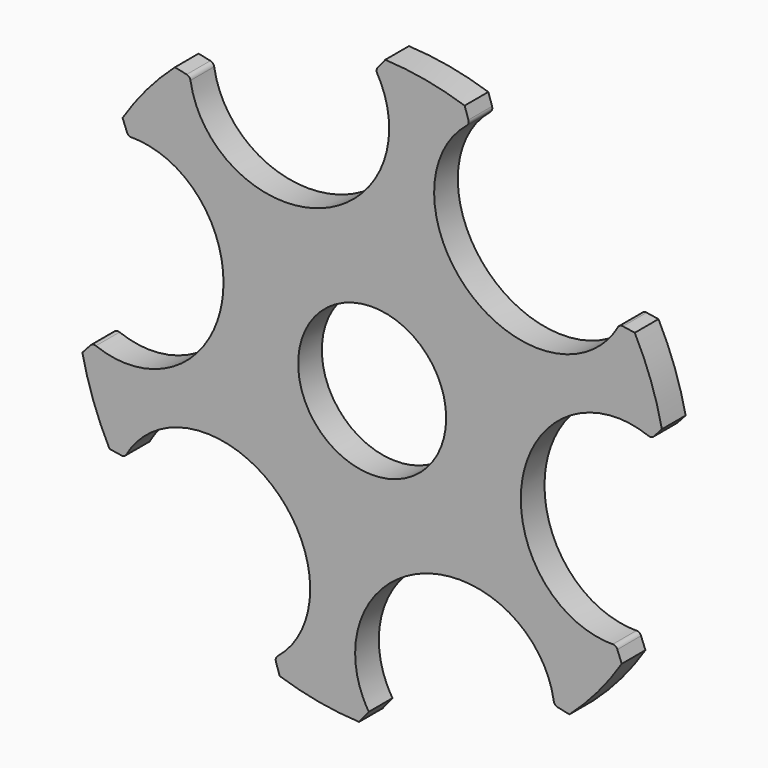
from build123d import *

# Parameters (mm, degrees)
F0_R     = 15
F1_DEPTH = 6
F2_R     = 1


with BuildPart() as f1:
    # F0 (on Front) → F1 (new body)
    with BuildSketch(Plane.XZ):
        with BuildLine():
            add(Edge.make_bspline(
                [(-36.9149694259, 44.0855422138), (-34.1079848174, 20.7478374412), (-10.4138151894, 29.1985008725), (13.2803544387, 37.6491643038), (0.6853516325, 57.4959154474)],
                knots=[2.933545983, 2.933545983, 2.933545983, 4.7123889804, 4.7123889804, 6.4912319777, 6.4912319777, 6.4912319777], degree=2, weights=[1, 0.6298614583, 1, 0.6298614583, 1]))
            Line((-36.9149694259, 44.0855422138), (-39.9834647697, 44.7361436091))
            ThreePointArc((-39.9834647697, 44.7361436091), (-45.7120237559, 38.8640049935), (-50.5860421703, 32.2653426689))
            Line((-50.5860421703, 32.2653426689), (-49.4502475751, 29.341489648))
            add(Edge.make_bspline(
                [(-56.6366842097, -9.9265301959), (-35.0221467064, -19.1644626032), (-30.4935511027, 5.5806219319), (-25.964955499, 30.3257064671), (-49.4502475751, 29.341489648)],
                knots=[2.933545983, 2.933545983, 2.933545983, 4.7123889804, 4.7123889804, 6.4912319777, 6.4912319777, 6.4912319777], degree=2, weights=[1, 0.6298614583, 1, 0.6298614583, 1]))
            Line((-56.6366842097, -9.9265301959), (-58.7343692177, -12.2586244173))
            ThreePointArc((-58.7343692177, -12.2586244173), (-56.5132274952, -20.1557713343), (-53.2356274982, -27.676126262))
            Line((-53.2356274982, -27.676126262), (-50.1355992076, -28.1544257994))
            add(Edge.make_bspline(
                [(-19.7217147838, -54.0120724097), (-0.914161889, -39.9123000444), (-20.0797359133, -23.6178789406), (-39.2453099377, -7.3234578367), (-50.1355992076, -28.1544257994)],
                knots=[2.933545983, 2.933545983, 2.933545983, 4.7123889804, 4.7123889804, 6.4912319777, 6.4912319777, 6.4912319777], degree=2, weights=[1, 0.6298614583, 1, 0.6298614583, 1]))
            Line((-19.7217147838, -54.0120724097), (-18.750904448, -56.9947680264))
            ThreePointArc((-18.750904448, -56.9947680264), (-10.8012037393, -59.0197763278), (-2.6495853279, -59.9414689309))
            Line((-2.6495853279, -59.9414689309), (-0.6853516325, -57.4959154474))
            add(Edge.make_bspline(
                [(36.9149694259, -44.0855422138), (34.1079848174, -20.7478374412), (10.4138151894, -29.1985008725), (-13.2803544387, -37.6491643038), (-0.6853516325, -57.4959154474)],
                knots=[2.933545983, 2.933545983, 2.933545983, 4.7123889804, 4.7123889804, 6.4912319777, 6.4912319777, 6.4912319777], degree=2, weights=[1, 0.6298614583, 1, 0.6298614583, 1]))
            Line((36.9149694259, -44.0855422138), (39.9834647697, -44.7361436091))
            ThreePointArc((39.9834647697, -44.7361436091), (45.7120237559, -38.8640049935), (50.5860421703, -32.2653426689))
            Line((50.5860421703, -32.2653426689), (49.4502475751, -29.341489648))
            add(Edge.make_bspline(
                [(56.6366842097, 9.9265301959), (35.0221467064, 19.1644626032), (30.4935511027, -5.5806219319), (25.964955499, -30.3257064671), (49.4502475751, -29.341489648)],
                knots=[2.933545983, 2.933545983, 2.933545983, 4.7123889804, 4.7123889804, 6.4912319777, 6.4912319777, 6.4912319777], degree=2, weights=[1, 0.6298614583, 1, 0.6298614583, 1]))
            Line((56.6366842097, 9.9265301959), (58.7343692177, 12.2586244173))
            ThreePointArc((58.7343692177, 12.2586244173), (56.5132274952, 20.1557713343), (53.2356274982, 27.676126262))
            Line((53.2356274982, 27.676126262), (50.1355992076, 28.1544257994))
            add(Edge.make_bspline(
                [(19.7217147838, 54.0120724097), (0.914161889, 39.9123000444), (20.0797359133, 23.6178789406), (39.2453099377, 7.3234578367), (50.1355992076, 28.1544257994)],
                knots=[2.933545983, 2.933545983, 2.933545983, 4.7123889804, 4.7123889804, 6.4912319777, 6.4912319777, 6.4912319777], degree=2, weights=[1, 0.6298614583, 1, 0.6298614583, 1]))
            Line((19.7217147838, 54.0120724097), (18.750904448, 56.9947680264))
            ThreePointArc((18.750904448, 56.9947680264), (10.8012037393, 59.0197763278), (2.6495853279, 59.9414689309))
            Line((2.6495853279, 59.9414689309), (0.6853516325, 57.4959154474))
        make_face()
        Circle(F0_R, mode=Mode.SUBTRACT)
    extrude(amount=F1_DEPTH)

    # F2
    f2_edges = [f1.edges().sort_by_distance(p)[0] for p in [
        (-36.914969, -3, 44.085542),
        (19.721715, -3, 54.012072),
        (56.636684, -3, 9.92653),
        (36.914969, -3, -44.085542),
        (-19.721715, -3, -54.012072),
        (-56.636684, -3, -9.92653),
        (-49.450248, -3, 29.34149),
        (-50.135599, -3, -28.154426),
        (49.450248, -3, -29.34149),
        (50.135599, -3, 28.154426),
        (0.685352, -3, 57.495915),
    ]]
    fillet(f2_edges, radius=F2_R)


solid = f1.part
